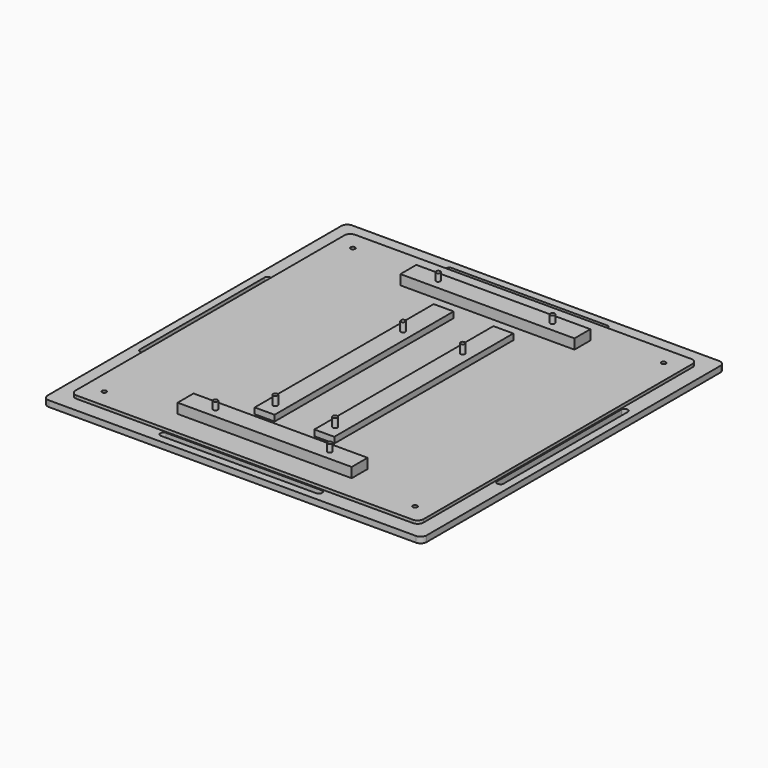
from build123d import *

# Parameters (mm, degrees)
F0_R     = 4
F1_DEPTH = 12
F2_R     = 4.5
F3_DEPTH = 6
F4_W     = 350
F4_H     = 40
F4_R     = 4.5
F5_DEPTH = 20
F4_W_2   = 40
F4_H_2   = 450
F6_DEPTH = 12
F7_DEPTH = 35
F8_DEPTH = 30


with BuildPart() as f1:
    # F0 (on Top) → F1 (new body)
    with BuildSketch(Plane.XY):
        with BuildLine():
            Line((369, 381), (-369, 381))
            ThreePointArc((-369, 381), (-377.4852813742, 377.4852813742), (-381, 369))
            Line((-381, 369), (-381, -369))
            ThreePointArc((-381, -369), (-377.4852813742, -377.4852813742), (-369, -381))
            Line((-369, -381), (369, -381))
            ThreePointArc((369, -381), (377.4852813742, -377.4852813742), (381, -369))
            Line((381, -369), (381, 369))
            ThreePointArc((381, 369), (377.4852813742, 377.4852813742), (369, 381))
        make_face()
        with Locations((-312.5, -312.5)):
            Circle(F0_R, mode=Mode.SUBTRACT)
        with BuildLine():
            ThreePointArc((-156.5, -365.5), (-160.7426406871, -363.7426406871), (-162.5, -359.5))
            Line((-162.5, -359.5), (-162.5, -358.5))
            ThreePointArc((-162.5, -358.5), (-160.7426406871, -354.2573593129), (-156.5, -352.5))
            Line((-156.5, -352.5), (156.5, -352.5))
            ThreePointArc((156.5, -352.5), (160.7426406871, -354.2573593129), (162.5, -358.5))
            Line((162.5, -358.5), (162.5, -359.5))
            ThreePointArc((162.5, -359.5), (160.7426406871, -363.7426406871), (156.5, -365.5))
            Line((156.5, -365.5), (-156.5, -365.5))
        make_face(mode=Mode.SUBTRACT)
        with Locations((312.5, -312.5)):
            Circle(F0_R, mode=Mode.SUBTRACT)
        with BuildLine():
            ThreePointArc((-365.5, 156.5), (-363.7426406871, 160.7426406871), (-359.5, 162.5))
            Line((-359.5, 162.5), (-358.5, 162.5))
            ThreePointArc((-358.5, 162.5), (-354.2573593129, 160.7426406871), (-352.5, 156.5))
            Line((-352.5, 156.5), (-352.5, -156.5))
            ThreePointArc((-352.5, -156.5), (-354.2573593129, -160.7426406871), (-358.5, -162.5))
            Line((-358.5, -162.5), (-359.5, -162.5))
            ThreePointArc((-359.5, -162.5), (-363.7426406871, -160.7426406871), (-365.5, -156.5))
            Line((-365.5, -156.5), (-365.5, 156.5))
        make_face(mode=Mode.SUBTRACT)
        with Locations((-312.5, 312.5)):
            Circle(F0_R, mode=Mode.SUBTRACT)
        with BuildLine():
            Line((358.5, 162.5), (359.5, 162.5))
            ThreePointArc((359.5, 162.5), (363.7426406871, 160.7426406871), (365.5, 156.5))
            Line((365.5, 156.5), (365.5, -156.5))
            ThreePointArc((365.5, -156.5), (363.7426406871, -160.7426406871), (359.5, -162.5))
            Line((359.5, -162.5), (358.5, -162.5))
            ThreePointArc((358.5, -162.5), (354.2573593129, -160.7426406871), (352.5, -156.5))
            Line((352.5, -156.5), (352.5, 156.5))
            ThreePointArc((352.5, 156.5), (354.2573593129, 160.7426406871), (358.5, 162.5))
        make_face(mode=Mode.SUBTRACT)
        with BuildLine():
            ThreePointArc((-162.5, 359.5), (-160.7426406871, 363.7426406871), (-156.5, 365.5))
            Line((-156.5, 365.5), (156.5, 365.5))
            ThreePointArc((156.5, 365.5), (160.7426406871, 363.7426406871), (162.5, 359.5))
            Line((162.5, 359.5), (162.5, 358.5))
            ThreePointArc((162.5, 358.5), (160.7426406871, 354.2573593129), (156.5, 352.5))
            Line((156.5, 352.5), (-156.5, 352.5))
            ThreePointArc((-156.5, 352.5), (-160.7426406871, 354.2573593129), (-162.5, 358.5))
            Line((-162.5, 358.5), (-162.5, 359.5))
        make_face(mode=Mode.SUBTRACT)
        with Locations((312.5, 312.5)):
            Circle(F0_R, mode=Mode.SUBTRACT)
    extrude(amount=F1_DEPTH)


with BuildPart() as f3:
    # F2 (on face) → F3 (new body)
    with BuildSketch(Plane.XY.offset(12)):
        with BuildLine():
            Line((338, 350), (-338, 350))
            ThreePointArc((-338, 350), (-346.4852813742, 346.4852813742), (-350, 338))
            Line((-350, 338), (-350, -338))
            ThreePointArc((-350, -338), (-346.4852813742, -346.4852813742), (-338, -350))
            Line((-338, -350), (338, -350))
            ThreePointArc((338, -350), (346.4852813742, -346.4852813742), (350, -338))
            Line((350, -338), (350, 338))
            ThreePointArc((350, 338), (346.4852813742, 346.4852813742), (338, 350))
        make_face()
        with Locations((-312.5, -312.5)):
            Circle(F2_R, mode=Mode.SUBTRACT)
        with Locations((312.5, -312.5)):
            Circle(F2_R, mode=Mode.SUBTRACT)
        with Locations((-312.5, 312.5)):
            Circle(F2_R, mode=Mode.SUBTRACT)
        with Locations((312.5, 312.5)):
            Circle(F2_R, mode=Mode.SUBTRACT)
    extrude(amount=F3_DEPTH)

    # F4 (on face) → F8 (join)
    with BuildSketch(Plane.XY.offset(18)):
        with Locations((-60, 123)):
            Circle(F4_R)
        with Locations((60, 123)):
            Circle(F4_R)
        with Locations((-60, -198)):
            Circle(F4_R)
        with Locations((60, -198)):
            Circle(F4_R)
    extrude(amount=F8_DEPTH)


with BuildPart() as f5:
    # F4 (on face) → F5 (new body)
    with BuildSketch(Plane.XY.offset(18)):
        with Locations((0, 280)):
            Rectangle(F4_W, F4_H)
        with Locations((-115, 280)):
            Circle(F4_R, mode=Mode.SUBTRACT)
        with Locations((115, 280)):
            Circle(F4_R, mode=Mode.SUBTRACT)
    extrude(amount=F5_DEPTH)


with BuildPart() as f5b:
    # F4 (on face) → F5, piece 2 (new body)
    with BuildSketch(Plane.XY.offset(18)):
        with Locations((0, -280)):
            Rectangle(F4_W, F4_H)
        with Locations((-115, -280)):
            Circle(F4_R, mode=Mode.SUBTRACT)
        with Locations((115, -280)):
            Circle(F4_R, mode=Mode.SUBTRACT)
    extrude(amount=F5_DEPTH)


with BuildPart() as f6:
    # F4 (on face) → F6 (new body)
    with BuildSketch(Plane.XY.offset(18)):
        with Locations((-60, 0)):
            Rectangle(F4_W_2, F4_H_2)
        with Locations((-60, -198)):
            Circle(F4_R, mode=Mode.SUBTRACT)
        with Locations((-60, 123)):
            Circle(F4_R, mode=Mode.SUBTRACT)
    extrude(amount=F6_DEPTH)


with BuildPart() as f6b:
    # F4 (on face) → F6, piece 2 (new body)
    with BuildSketch(Plane.XY.offset(18)):
        with Locations((60, 0)):
            Rectangle(F4_W_2, F4_H_2)
        with Locations((60, -198)):
            Circle(F4_R, mode=Mode.SUBTRACT)
        with Locations((60, 123)):
            Circle(F4_R, mode=Mode.SUBTRACT)
    extrude(amount=F6_DEPTH)


with BuildPart() as f7:
    # F4 (on face) → F7 (new body)
    with BuildSketch(Plane.XY.offset(18)):
        with Locations((-115, 280)):
            Circle(F4_R)
    extrude(amount=F7_DEPTH)


with BuildPart() as f7b:
    # F4 (on face) → F7, piece 2 (new body)
    with BuildSketch(Plane.XY.offset(18)):
        with Locations((115, 280)):
            Circle(F4_R)
    extrude(amount=F7_DEPTH)


with BuildPart() as f7c:
    # F4 (on face) → F7, piece 3 (new body)
    with BuildSketch(Plane.XY.offset(18)):
        with Locations((-115, -280)):
            Circle(F4_R)
    extrude(amount=F7_DEPTH)


with BuildPart() as f7d:
    # F4 (on face) → F7, piece 4 (new body)
    with BuildSketch(Plane.XY.offset(18)):
        with Locations((115, -280)):
            Circle(F4_R)
    extrude(amount=F7_DEPTH)


solid = Compound([f1.part, f3.part, f5.part, f5b.part, f6.part, f6b.part, f7.part, f7b.part, f7c.part, f7d.part])
